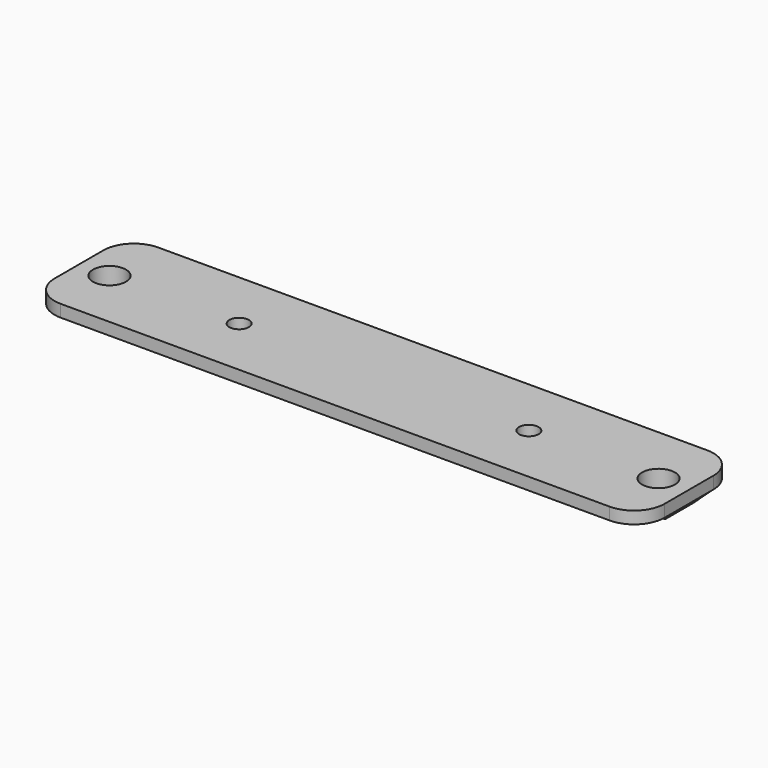
from build123d import *

# Parameters (mm, degrees)
F1_DEPTH = 2
F3_DEPTH = 100
F4_R     = 2.7
F4_R_2   = 1.6
F5_DEPTH = 3.601
F6_SIZE  = 1.6


with BuildPart() as f1:
    # F0 (on Top) → F1 (new body)
    with BuildSketch(Plane.XY):
        with BuildLine():
            ThreePointArc((50, 5), (48.5355339059, 8.5355339059), (45, 10))
            Line((45, 10), (-45, 10))
            ThreePointArc((-45, 10), (-48.5355339059, 8.5355339059), (-50, 5))
            Line((-50, 5), (-50, -5))
            ThreePointArc((-50, -5), (-48.5355339059, -8.5355339059), (-45, -10))
            Line((-45, -10), (45, -10))
            ThreePointArc((45, -10), (48.5355339059, -8.5355339059), (50, -5))
            Line((50, -5), (50, 5))
        make_face()
    extrude(amount=F1_DEPTH)

    # F2 (on face) → F3 (join, through all)
    with BuildSketch(Plane(origin=(-50, 0, 0), x_dir=(0, -1, 0), z_dir=(-1, 0, 0))):
        Polygon((-4.5, 0), (-2.9, -1.6), (2.9, -1.6), (4.5, 0), align=None)
    extrude(amount=-F3_DEPTH)

    # F4 (on face) → F5 (cut, through all)
    with BuildSketch(Plane.XY.offset(2)):
        with Locations((-45, 0)):
            Circle(F4_R)
        with Locations((45, 0)):
            Circle(F4_R)
        with Locations((23.75, 0)):
            Circle(F4_R_2)
        with Locations((-23.75, 0)):
            Circle(F4_R_2)
    extrude(amount=-F5_DEPTH, mode=Mode.SUBTRACT)

    # F6
    f6_edges = [f1.edges().sort_by_distance(p)[0] for p in [
        (-50, 0, -1.6),
        (50, 0, -1.6),
    ]]
    chamfer(f6_edges, length=F6_SIZE)


solid = f1.part
